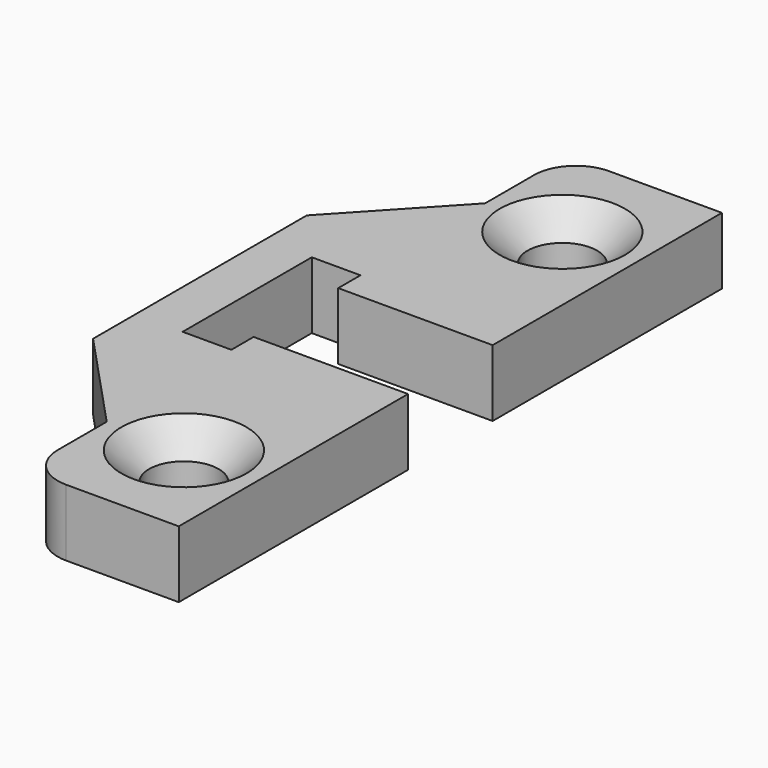
from build123d import *

# Parameters (mm, degrees)
F0_R     = 1.25
F1_DEPTH = 2.4
F2_SIZE  = 1


with BuildPart() as f1:
    # F0 (on Top) → F1 (new body)
    with BuildSketch(Plane.XY):
        with BuildLine():
            Line((0.479412, -12.2), (4.529412, -12.2))
            Line((4.529412, -12.2), (4.529412, -4.8))
            Line((4.529412, -4.8), (4.529412, -1.9))
            Line((4.529412, -1.9), (-1.020588, -1.9))
            Line((-1.020588, -1.9), (-1.020588, -2.9))
            Line((-1.020588, -2.9), (-2.770588, -2.9))
            Line((-2.770588, -2.9), (-2.770588, 0))
            Line((-2.770588, 0), (-2.770588, 2.9))
            Line((-2.770588, 2.9), (-1.020588, 2.9))
            Line((-1.020588, 2.9), (-1.020588, 1.9))
            Line((-1.020588, 1.9), (4.529412, 1.9))
            Line((4.529412, 1.9), (4.529412, 4.8))
            Line((4.529412, 4.8), (4.529412, 12.2))
            Line((4.529412, 12.2), (0.479412, 12.2))
            ThreePointArc((0.479412, 12.2), (-0.581248, 11.76066), (-1.020588, 10.7))
            Line((-1.020588, 10.7), (-1.020588, 8.5))
            Line((-1.020588, 8.5), (-4.470588, 4.8))
            Line((-4.470588, 4.8), (-4.470588, 0))
            Line((-4.470588, 0), (-4.470588, -4.8))
            Line((-4.470588, -4.8), (-1.020588, -8.5))
            Line((-1.020588, -8.5), (-1.020588, -10.7))
            ThreePointArc((-1.020588, -10.7), (-0.581248, -11.76066), (0.479412, -12.2))
        make_face()
        with Locations((1.754412, -8.5)):
            Circle(F0_R, mode=Mode.SUBTRACT)
        with Locations((1.754412, 8.5)):
            Circle(F0_R, mode=Mode.SUBTRACT)
    extrude(amount=F1_DEPTH)

    # F2
    f2_edges = [f1.edges().sort_by_distance(p)[0] for p in [
        (0.504412, 8.5, 2.4),
        (0.504412, -8.5, 2.4),
    ]]
    chamfer(f2_edges, length=F2_SIZE)


solid = f1.part
